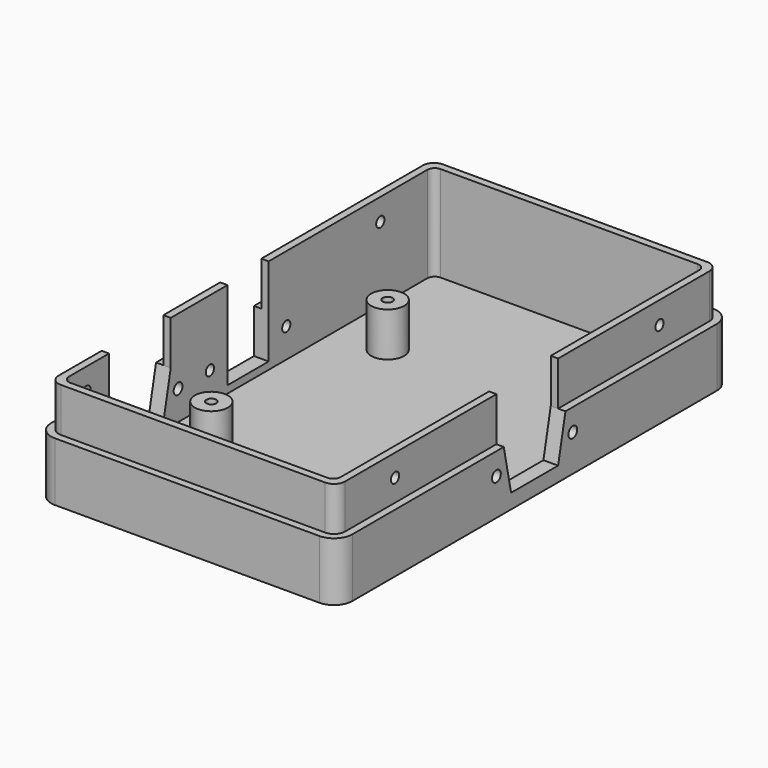
from build123d import *

# Parameters (mm, degrees)
F1_DEPTH  = 16
F2_T      = -2
F3_R      = 4.5
F4_DEPTH  = 12
F6_R      = 1.35
F7_DEPTH  = 8
F8_DEPTH  = 26
F9_R      = 1.4
F9_W      = 14
F9_H      = 12
F9_R_2    = 1.5
F9_W_2    = 21
F11_DEPTH = 4
F10_R     = 1.5
F10_W     = 21
F10_H     = 12
F10_R_2   = 1.4
F12_DEPTH = 4


with BuildPart() as f1:
    # F0 (on Top) → F1 (new body)
    with BuildSketch(Plane.XY):
        with BuildLine():
            Line((-36, -67), (36, -67))
            ThreePointArc((36, -67), (39.5355339059, -65.5355339059), (41, -62))
            Line((41, -62), (41, 62))
            ThreePointArc((41, 62), (39.5355339059, 65.5355339059), (36, 67))
            Line((36, 67), (-36, 67))
            ThreePointArc((-36, 67), (-39.5355339059, 65.5355339059), (-41, 62))
            Line((-41, 62), (-41, -62))
            ThreePointArc((-41, -62), (-39.5355339059, -65.5355339059), (-36, -67))
        make_face()
    extrude(amount=F1_DEPTH)

    # F2
    f2_openings = [f1.faces().sort_by_distance(p)[0] for p in [
        (0, 0, 16),
    ]]
    offset(amount=F2_T, openings=f2_openings)

    # F3 (on face) → F4 (join)
    with BuildSketch(Plane.XY.offset(2)):
        with Locations((-23, 30)):
            Circle(F3_R)
        with Locations((-23, -30)):
            Circle(F3_R)
        with Locations((29, -30)):
            Circle(F3_R)
        with Locations((29, 30)):
            Circle(F3_R)
    extrude(amount=F4_DEPTH)

    # F6 (on mid) → F7 (cut)
    with BuildSketch(Plane.XY.offset(14)):
        with Locations((-23, 30)):
            Circle(F6_R)
        with Locations((29, 30)):
            Circle(F6_R)
        with Locations((-23, -30)):
            Circle(F6_R)
        with Locations((29, -30)):
            Circle(F6_R)
    extrude(amount=-F7_DEPTH, mode=Mode.SUBTRACT)

    # F3 (on face) → F8 (join)
    with BuildSketch(Plane.XY.offset(2)):
        with BuildLine():
            Line((-36, -65), (36, -65))
            ThreePointArc((36, -65), (38.1213203436, -64.1213203436), (39, -62))
            Line((39, -62), (39, 62))
            ThreePointArc((39, 62), (38.1213203436, 64.1213203436), (36, 65))
            Line((36, 65), (-36, 65))
            ThreePointArc((-36, 65), (-38.1213203436, 64.1213203436), (-39, 62))
            Line((-39, 62), (-39, -62))
            ThreePointArc((-39, -62), (-38.1213203436, -64.1213203436), (-36, -65))
        make_face()
        with BuildLine():
            ThreePointArc((37, -61), (36.4142135624, -62.4142135624), (35, -63))
            Line((35, -63), (-35, -63))
            ThreePointArc((-35, -63), (-36.4142135624, -62.4142135624), (-37, -61))
            Line((-37, -61), (-37, 61))
            ThreePointArc((-37, 61), (-36.4142135624, 62.4142135624), (-35, 63))
            Line((-35, 63), (35, 63))
            ThreePointArc((35, 63), (36.4142135624, 62.4142135624), (37, 61))
            Line((37, 61), (37, -61))
        make_face(mode=Mode.SUBTRACT)
        with BuildLine():
            Line((-36, -65), (36, -65))
            ThreePointArc((36, -65), (38.1213203436, -64.1213203436), (39, -62))
            Line((39, -62), (39, 62))
            ThreePointArc((39, 62), (38.1213203436, 64.1213203436), (36, 65))
            Line((36, 65), (-36, 65))
            ThreePointArc((-36, 65), (-38.1213203436, 64.1213203436), (-39, 62))
            Line((-39, 62), (-39, -62))
            ThreePointArc((-39, -62), (-38.1213203436, -64.1213203436), (-36, -65))
        make_face()
        with BuildLine():
            ThreePointArc((37, -61), (36.4142135624, -62.4142135624), (35, -63))
            Line((35, -63), (-35, -63))
            ThreePointArc((-35, -63), (-36.4142135624, -62.4142135624), (-37, -61))
            Line((-37, -61), (-37, 61))
            ThreePointArc((-37, 61), (-36.4142135624, 62.4142135624), (-35, 63))
            Line((-35, 63), (35, 63))
            ThreePointArc((35, 63), (36.4142135624, 62.4142135624), (37, 61))
            Line((37, 61), (37, -61))
        make_face(mode=Mode.SUBTRACT)
    extrude(amount=F8_DEPTH)

    # F9 (on face) → F11 (cut)
    with BuildSketch(Plane(origin=(-41, 0, 0), x_dir=(0, -1, 0), z_dir=(-1, 0, 0))):
        with Locations((-13, 10)):
            Circle(F9_R)
        with Locations((13, 10)):
            Circle(F9_R)
        with Locations((0, 10)):
            Rectangle(F9_W, F9_H)
        with Locations((0, 22)):
            Rectangle(F9_W, F9_H)
        with Locations((23.825, 10)):
            Circle(F9_R_2)
        with Locations((49.825, 10)):
            Circle(F9_R_2)
        with Locations((36.825, 22)):
            Rectangle(F9_W_2, F9_H)
        Polygon((47.325, 16), (26.325, 16), (28.825, 4), (44.825, 4), align=None)
        with Locations((-45, 22)):
            Circle(F9_R)
        with Locations((55, 22)):
            Circle(F9_R)
    extrude(amount=-F11_DEPTH, mode=Mode.SUBTRACT)

    # F10 (on face) → F12 (cut)
    with BuildSketch(Plane.YZ.offset(41)):
        with Locations((-13, 10)):
            Circle(F10_R)
        with Locations((13, 10)):
            Circle(F10_R)
        with Locations((0, 22)):
            Rectangle(F10_W, F10_H)
        Polygon((10.5, 16), (-10.5, 16), (-8, 4), (8, 4), align=None)
        with Locations((45, 22)):
            Circle(F10_R_2)
        with Locations((-45, 22)):
            Circle(F10_R_2)
    extrude(amount=-F12_DEPTH, mode=Mode.SUBTRACT)


solid = f1.part
